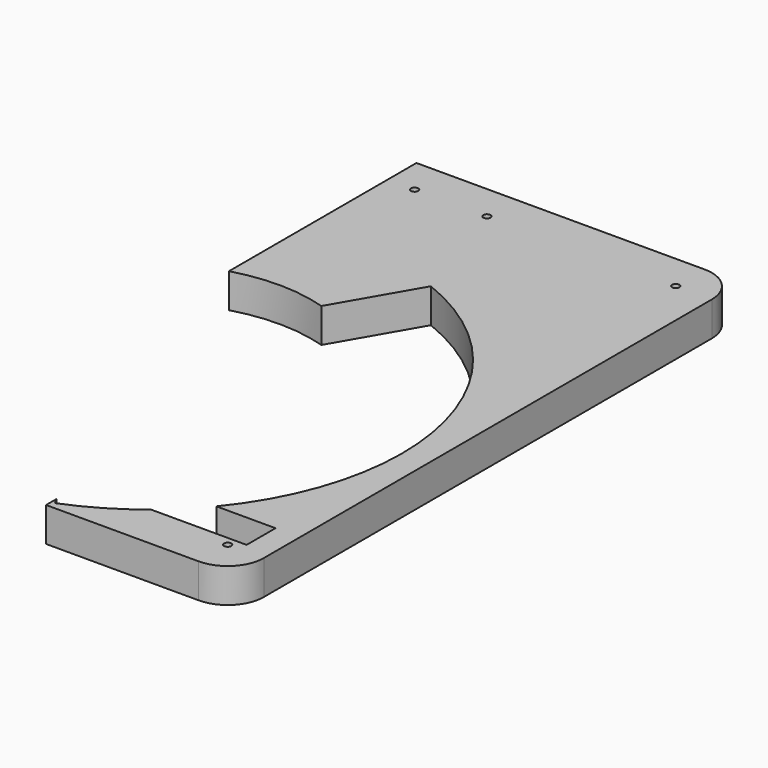
from build123d import *

# Parameters (mm, degrees)
PAD016_DEPTH    = 19
FILLET006_R     = 20
SKETCH023_R     = 2
POCKET014_DEPTH = 19.001
SKETCH026_R     = 2
POCKET016_DEPTH = 19.001
SKETCH047_W     = 56
SKETCH047_H     = 20
POCKET030_DEPTH = 19.001


with BuildPart() as part:
    # Sketch021 → Pad016 (new body)
    with BuildSketch(Plane.XY):
        with BuildLine():
            Line((200, 216.2), (200, 86.458082))
            ThreePointArc((251.554314, 85.993421), (225.811141, 89.996345), (200, 86.458082))
            Line((251.554314, 85.993421), (276.961524, 130))
            ThreePointArc((276.961524, -130), (365, 0), (276.961524, 130))
            Line((276.961524, -130), (275, -126.60254))
            Line((275, -126.60254), (275, -133.8))
            Line((275, -133.8), (379.498932, -133.8))
            Line((379.498932, -133.8), (379.498932, 216.2))
            Line((379.498932, 216.2), (200, 216.2))
        make_face()
    extrude(amount=PAD016_DEPTH)

    # Fillet006
    fillet006_edges = [part.edges().sort_by_distance(p)[0] for p in [
        (379.498932, 216.2, 9.5),
        (379.498932, -133.8, 9.5),
    ]]
    fillet(fillet006_edges, radius=FILLET006_R)

    # Sketch023 (on Face5 of Fillet006) → Pocket014 (cut, through all)
    with BuildSketch(Plane.XY.offset(19)):
        with Locations((215, 196.2)):
            Circle(SKETCH023_R)
    extrude(amount=-POCKET014_DEPTH, mode=Mode.SUBTRACT)

    # Sketch026 (on Face5 of Pocket014) → Pocket016 (cut, through all)
    with BuildSketch(Plane.XY.offset(19)):
        with Locations((254.998932, 196.2)):
            Circle(SKETCH026_R)
        with Locations((359.498932, 196.2)):
            Circle(SKETCH026_R)
        with Locations((359.498932, -113.8)):
            Circle(SKETCH026_R)
    extrude(amount=-POCKET016_DEPTH, mode=Mode.SUBTRACT)

    # Sketch047 (on Face2 of Pocket016) → Pocket030 (cut, through all)
    with BuildSketch(Plane(origin=(0, 0, 0), x_dir=(1, 0, 0), z_dir=(0, 0, -1))):
        with Locations((337.998932, 98.8)):
            Rectangle(SKETCH047_W, SKETCH047_H)
    extrude(amount=-POCKET030_DEPTH, mode=Mode.SUBTRACT)


with BuildPart() as part_1:
    # Body012 placement: moved
    add(part.part.moved(Location((0, 0, -9))))


with BuildPart() as part_2:
    # Clone001 placement: moved
    add(part_1.part.moved(Location((-200, 133.8, -10))))


solid = part_2.part
